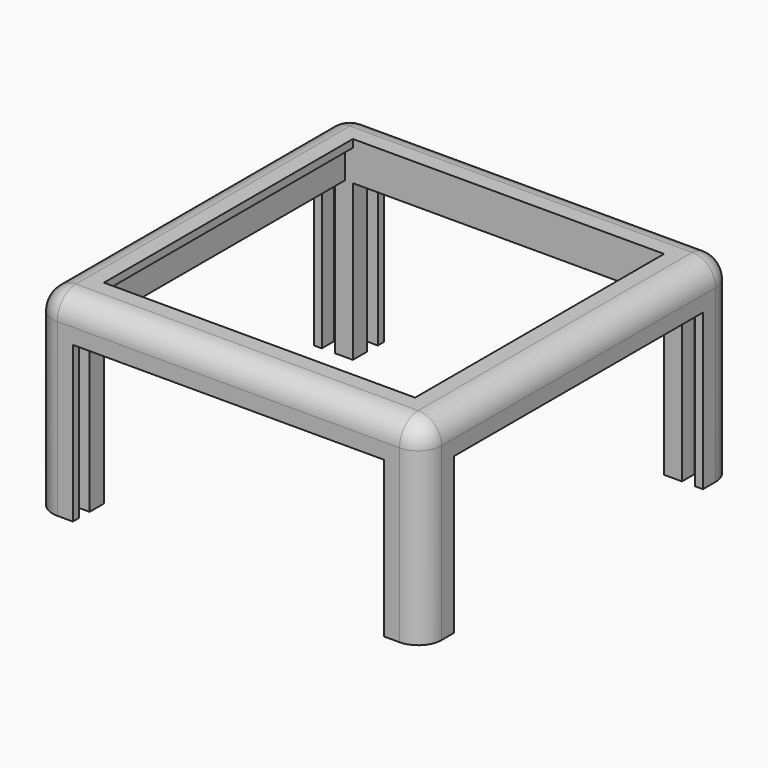
from build123d import *

# Parameters (mm, degrees)
SKETCH011_W             = 50
SKETCH011_H             = 50
PAD001_DEPTH            = 25
FILLET001_R             = 3
POCKET004_DEPTH         = 20
SKETCH013_W             = 42
SKETCH013_H             = 40
POCKET003_DEPTH         = 4
SKETCH010_W             = 40
SKETCH010_H             = 40
POCKET005_DEPTH         = 1
BODY001_PLACEMENT_ANGLE = 180


with BuildPart() as part:
    # Sketch011 → Pad001 (new body)
    with BuildSketch(Plane.XY):
        Rectangle(SKETCH011_W, SKETCH011_H)
    extrude(amount=PAD001_DEPTH)

    # Fillet001
    fillet001_edges = [part.edges().sort_by_distance(p)[0] for p in [
        (0, -25, 0),
        (-25, 0, 0),
        (0, 25, 0),
        (25, 0, 0),
        (-25, -25, 12.5),
        (25, 25, 12.5),
        (-25, 25, 12.5),
        (25, -25, 12.5),
    ]]
    fillet(fillet001_edges, radius=FILLET001_R)

    # Sketch012 (on Face2 of Fillet001) → Pocket004 (cut)
    with BuildSketch(Plane.XY.offset(25)):
        Polygon((-20, 25), (-20, 24), (-22, 24), (-22, 22.3), (-20, 22.3), (-20, 20), (-22.3, 20), (-22.3, 22), (-24, 22), (-24, 20), (-25, 20), (-25, -20), (-24, -20), (-24, -22), (-22.3, -22), (-22.3, -20), (-20, -20), (-20, -22.3), (-22, -22.3), (-22, -24), (-20, -24), (-20, -25), (20, -25), (20, -24), (22, -24), (22, -22.3), (20, -22.3), (20, -20), (22.3, -20), (22.3, -22), (24, -22), (24, -20), (25, -20), (25, 20), (24, 20), (24, 22), (22.3, 22), (22.3, 20), (20, 20), (20, 22.3), (22, 22.3), (22, 24), (20, 24), (20, 25), align=None)
    extrude(amount=-POCKET004_DEPTH, mode=Mode.SUBTRACT)

    # Sketch013 (on Face7 of Pocket004) → Pocket003 (cut)
    with BuildSketch(Plane.XY.offset(5)):
        Rectangle(SKETCH013_W, SKETCH013_H)
    extrude(amount=-POCKET003_DEPTH, mode=Mode.SUBTRACT)

    # Sketch010 (on Face47 of Pocket003) → Pocket005 (cut)
    with BuildSketch(Plane.XY.offset(1)):
        Rectangle(SKETCH010_W, SKETCH010_H)
    extrude(amount=-POCKET005_DEPTH, mode=Mode.SUBTRACT)


with BuildPart() as part_1:
    # Body001 placement: moved
    add(part.part.moved(Location((0, 0, 50))).rotate(Axis((0, 0, 50), (0, 1, 0)), BODY001_PLACEMENT_ANGLE))


solid = part_1.part
